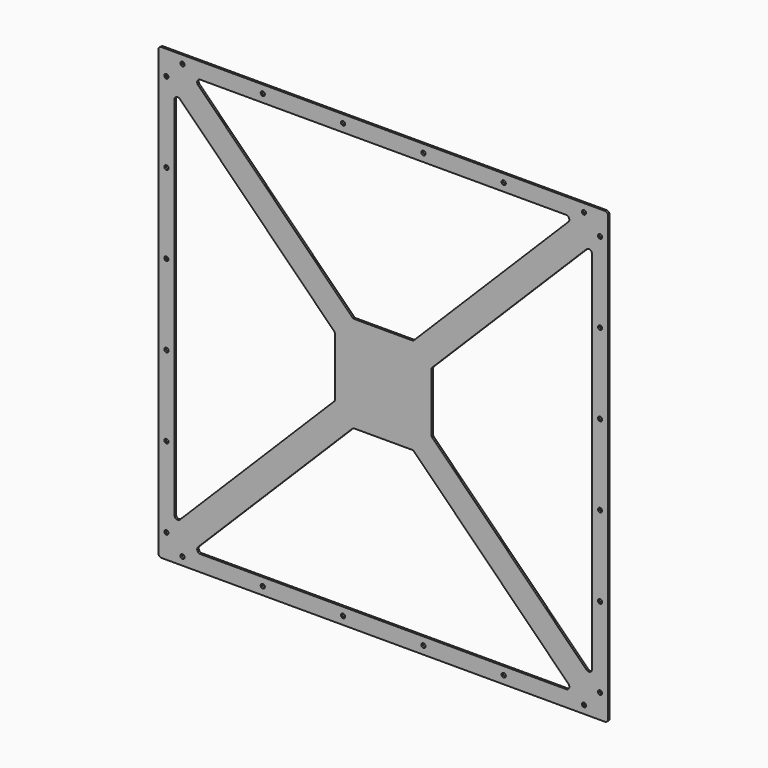
from build123d import *

# Parameters (mm, degrees)
F0_R     = 3.25
F1_DEPTH = 3


with BuildPart() as f1:
    # F0 (on Front) → F1 (new body)
    with BuildSketch(Plane.XZ):
        with BuildLine():
            ThreePointArc((350, 345), (348.535534, 348.535534), (345, 350))
            Line((345, 350), (-345, 350))
            ThreePointArc((-345, 350), (-348.535534, 348.535534), (-350, 345))
            Line((-350, 345), (-350, -345))
            ThreePointArc((-350, -345), (-348.535534, -348.535534), (-345, -350))
            Line((-345, -350), (345, -350))
            ThreePointArc((345, -350), (348.535534, -348.535534), (350, -345))
            Line((350, -345), (350, 345))
        make_face()
        with Locations((-312.5, -337.5)):
            Circle(F0_R, mode=Mode.SUBTRACT)
        with Locations((-337.5, -312.5)):
            Circle(F0_R, mode=Mode.SUBTRACT)
        with Locations((-187.5, -337.5)):
            Circle(F0_R, mode=Mode.SUBTRACT)
        with Locations((-337.5, -187.5)):
            Circle(F0_R, mode=Mode.SUBTRACT)
        with Locations((-62.5, -337.5)):
            Circle(F0_R, mode=Mode.SUBTRACT)
        with BuildLine():
            Line((-44.644661, -75), (44.644661, -75))
            ThreePointArc((44.644661, -75), (46.558078, -75.380602), (48.180195, -76.464466))
            Line((48.180195, -76.464466), (288.180195, -316.464466))
            ThreePointArc((288.180195, -316.464466), (289.264059, -321.913417), (284.644661, -325))
            Line((284.644661, -325), (-284.644661, -325))
            ThreePointArc((-284.644661, -325), (-289.264059, -321.913417), (-288.180195, -316.464466))
            Line((-288.180195, -316.464466), (-48.180195, -76.464466))
            ThreePointArc((-48.180195, -76.464466), (-46.558078, -75.380602), (-44.644661, -75))
        make_face(mode=Mode.SUBTRACT)
        with Locations((-337.5, -62.5)):
            Circle(F0_R, mode=Mode.SUBTRACT)
        with Locations((62.5, -337.5)):
            Circle(F0_R, mode=Mode.SUBTRACT)
        with Locations((187.5, -337.5)):
            Circle(F0_R, mode=Mode.SUBTRACT)
        with Locations((312.5, -337.5)):
            Circle(F0_R, mode=Mode.SUBTRACT)
        with Locations((337.5, -312.5)):
            Circle(F0_R, mode=Mode.SUBTRACT)
        with Locations((337.5, -187.5)):
            Circle(F0_R, mode=Mode.SUBTRACT)
        with BuildLine():
            Line((75, -44.644661), (75, 44.644661))
            ThreePointArc((75, 44.644661), (75.380602, 46.558078), (76.464466, 48.180195))
            Line((76.464466, 48.180195), (316.464466, 288.180195))
            ThreePointArc((316.464466, 288.180195), (321.913417, 289.264059), (325, 284.644661))
            Line((325, 284.644661), (325, -284.644661))
            ThreePointArc((325, -284.644661), (321.913417, -289.264059), (316.464466, -288.180195))
            Line((316.464466, -288.180195), (76.464466, -48.180195))
            ThreePointArc((76.464466, -48.180195), (75.380602, -46.558078), (75, -44.644661))
        make_face(mode=Mode.SUBTRACT)
        with Locations((337.5, -62.5)):
            Circle(F0_R, mode=Mode.SUBTRACT)
        with Locations((-337.5, 62.5)):
            Circle(F0_R, mode=Mode.SUBTRACT)
        with BuildLine():
            Line((-75, 44.644661), (-75, -44.644661))
            ThreePointArc((-75, -44.644661), (-75.380602, -46.558078), (-76.464466, -48.180195))
            Line((-76.464466, -48.180195), (-316.464466, -288.180195))
            ThreePointArc((-316.464466, -288.180195), (-321.913417, -289.264059), (-325, -284.644661))
            Line((-325, -284.644661), (-325, 284.644661))
            ThreePointArc((-325, 284.644661), (-321.913417, 289.264059), (-316.464466, 288.180195))
            Line((-316.464466, 288.180195), (-76.464466, 48.180195))
            ThreePointArc((-76.464466, 48.180195), (-75.380602, 46.558078), (-75, 44.644661))
        make_face(mode=Mode.SUBTRACT)
        with Locations((-337.5, 187.5)):
            Circle(F0_R, mode=Mode.SUBTRACT)
        with Locations((-337.5, 312.5)):
            Circle(F0_R, mode=Mode.SUBTRACT)
        with Locations((-312.5, 337.5)):
            Circle(F0_R, mode=Mode.SUBTRACT)
        with Locations((-187.5, 337.5)):
            Circle(F0_R, mode=Mode.SUBTRACT)
        with Locations((-62.5, 337.5)):
            Circle(F0_R, mode=Mode.SUBTRACT)
        with Locations((337.5, 62.5)):
            Circle(F0_R, mode=Mode.SUBTRACT)
        with BuildLine():
            Line((44.644661, 75), (-44.644661, 75))
            ThreePointArc((-44.644661, 75), (-46.558078, 75.380602), (-48.180195, 76.464466))
            Line((-48.180195, 76.464466), (-288.180195, 316.464466))
            ThreePointArc((-288.180195, 316.464466), (-289.264059, 321.913417), (-284.644661, 325))
            Line((-284.644661, 325), (284.644661, 325))
            ThreePointArc((284.644661, 325), (289.264059, 321.913417), (288.180195, 316.464466))
            Line((288.180195, 316.464466), (48.180195, 76.464466))
            ThreePointArc((48.180195, 76.464466), (46.558078, 75.380602), (44.644661, 75))
        make_face(mode=Mode.SUBTRACT)
        with Locations((62.5, 337.5)):
            Circle(F0_R, mode=Mode.SUBTRACT)
        with Locations((337.5, 187.5)):
            Circle(F0_R, mode=Mode.SUBTRACT)
        with Locations((187.5, 337.5)):
            Circle(F0_R, mode=Mode.SUBTRACT)
        with Locations((337.5, 312.5)):
            Circle(F0_R, mode=Mode.SUBTRACT)
        with Locations((312.5, 337.5)):
            Circle(F0_R, mode=Mode.SUBTRACT)
    extrude(amount=F1_DEPTH)


solid = f1.part
